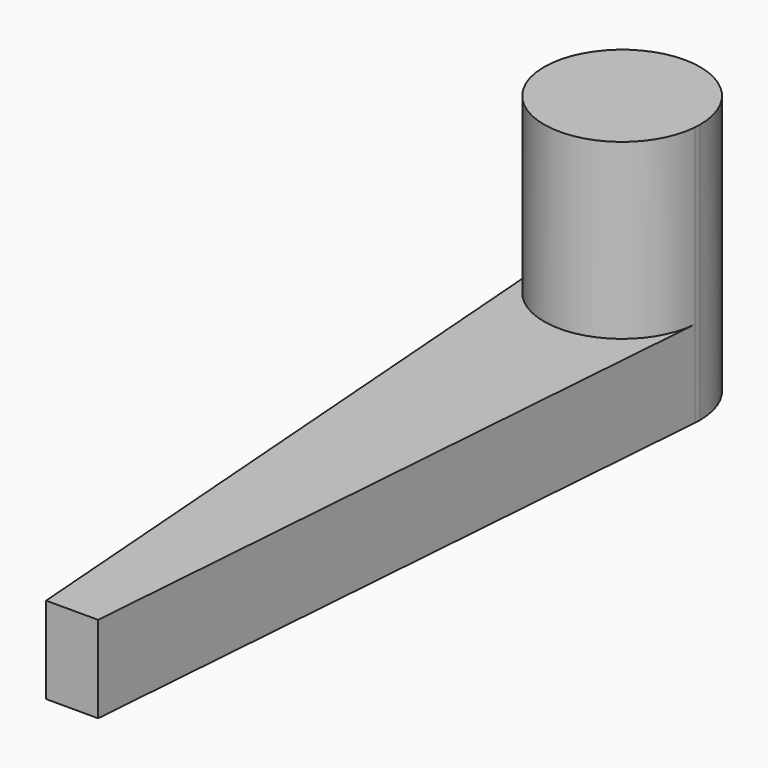
from build123d import *

# Parameters (mm, degrees)
F1_DEPTH = 5
F2_DEPTH = 15


with BuildPart() as f1:
    # F0 (on Top) → F1 (new body)
    with BuildSketch(Plane.XY):
        with BuildLine():
            Line((1.5, -39.647717), (4.487062, -0.340988))
            ThreePointArc((4.487062, -0.340988), (0.169154, -4.49682), (-4.448765, -0.677121))
            Line((-4.448765, -0.677121), (-1.5, -39.647717))
            Line((-1.5, -39.647717), (1.5, -39.647717))
        make_face()
    extrude(amount=F1_DEPTH)

    # F0 (on Top) → F2 (join)
    with BuildSketch(Plane.XY):
        with BuildLine():
            ThreePointArc((4.487062, -0.340988), (4.496764, -0.170617), (4.5, 0))
            ThreePointArc((4.5, 0), (0, 4.5), (-4.5, 0))
            Line((-4.5, 0), (-4.448765, -0.677121))
            ThreePointArc((-4.448765, -0.677121), (0.169154, -4.49682), (4.487062, -0.340988))
        make_face()
    extrude(amount=F2_DEPTH)


solid = f1.part
